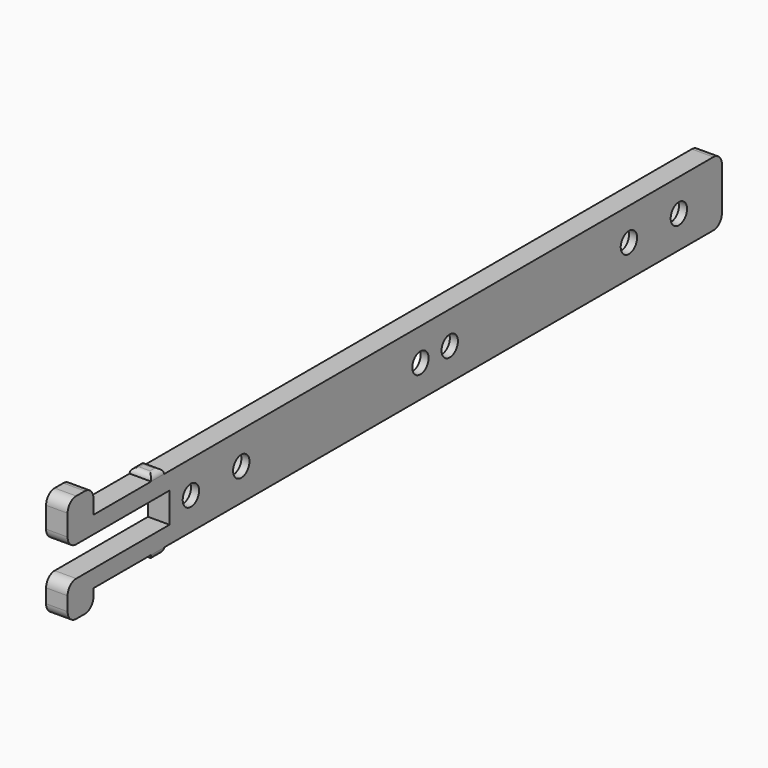
from build123d import *

# Parameters (mm, degrees)
SKETCH066_R             = 1.9
PAD022_DEPTH            = 4
SKETCH067_R             = 4
POCKET044_DEPTH         = 2.5
FILLET018_R             = 2
FILLET019_R             = 1
FILLET020_R             = 2
BODY018_PLACEMENT_ANGLE = 270


with BuildPart() as part:
    # Sketch066 → Pad022 (new body)
    with BuildSketch(Plane.XZ):
        Polygon((4, 0), (-125.535636, 0), (-125.535636, -1.01), (-128.535636, -1.01), (-128.535636, 0), (-141.91974, 0), (-141.91974, -3.395505), (-147.91974, -3.395505), (-147.91974, 3.2), (-124.257385, 3.2), (-124.257385, 8.8), (-147.91974, 8.8), (-147.91974, 16.699631), (-141.91974, 16.699631), (-141.91974, 12), (-128.535636, 12), (-128.535636, 13.01), (-125.535636, 13.01), (-125.535636, 12), (4, 12), align=None)
        with Locations((-66, 6)):
            Circle(SKETCH066_R, mode=Mode.SUBTRACT)
        with Locations((-6, 6)):
            Circle(SKETCH066_R, mode=Mode.SUBTRACT)
        with Locations((-107.6, 6)):
            Circle(SKETCH066_R, mode=Mode.SUBTRACT)
        with Locations((-17.6, 6)):
            Circle(SKETCH066_R, mode=Mode.SUBTRACT)
        with Locations((-59.2, 6)):
            Circle(SKETCH066_R, mode=Mode.SUBTRACT)
        with Locations((-119.3, 6)):
            Circle(SKETCH066_R, mode=Mode.SUBTRACT)
    extrude(amount=PAD022_DEPTH)

    # Sketch067 (on Face27 of Pad022) → Pocket044 (cut)
    with BuildSketch(Plane(origin=(0, 0, 0), x_dir=(1, 0, 0), z_dir=(0, 1, 0))):
        with Locations((-107.6, -6)):
            Circle(SKETCH067_R)
        with Locations((-6, -6)):
            Circle(SKETCH067_R)
        with Locations((-17.6, -6)):
            Circle(SKETCH067_R)
        with Locations((-119.3, -6)):
            Circle(SKETCH067_R)
        with BuildLine():
            ThreePointArc((-66.1179939879, -2), (-70.1179939879, -6), (-66.1179939879, -10))
            Line((-66.1179939879, -10), (-59.2, -10))
            ThreePointArc((-59.2, -10), (-55.2, -6), (-59.2, -2))
            Line((-66.1179939879, -2), (-59.2, -2))
        make_face()
    extrude(amount=-POCKET044_DEPTH, mode=Mode.SUBTRACT)

    # Fillet018
    fillet018_edges = [part.edges().sort_by_distance(p)[0] for p in [
        (4, -2, 12),
        (4, -2, 0),
    ]]
    fillet(fillet018_edges, radius=FILLET018_R)

    # Fillet019
    fillet019_edges = [part.edges().sort_by_distance(p)[0] for p in [
        (-125.535636, -2, -1.01),
        (-128.535636, -2, -1.01),
        (-127.035636, 0, -1.01),
        (-127.035636, -4, -1.01),
        (-128.535636, -2, 13.01),
        (-125.535636, -2, 13.01),
        (-127.035636, 0, 13.01),
        (-127.035636, -4, 13.01),
    ]]
    fillet(fillet019_edges, radius=FILLET019_R)

    # Fillet020
    fillet020_edges = [part.edges().sort_by_distance(p)[0] for p in [
        (-141.91974, -2, 16.699631),
        (-147.91974, -2, 16.699631),
        (-147.91974, -2, 8.8),
        (-147.91974, -2, 3.2),
        (-147.91974, -2, -3.395505),
        (-141.91974, -2, -3.395505),
    ]]
    fillet(fillet020_edges, radius=FILLET020_R)


with BuildPart() as part_1:
    # Body018 placement: moved
    add(part.part.moved(Location((8.5, 121, 72.8))).rotate(Axis((8.5, 121, 72.8), (0, 0, -1)), BODY018_PLACEMENT_ANGLE))


solid = part_1.part
